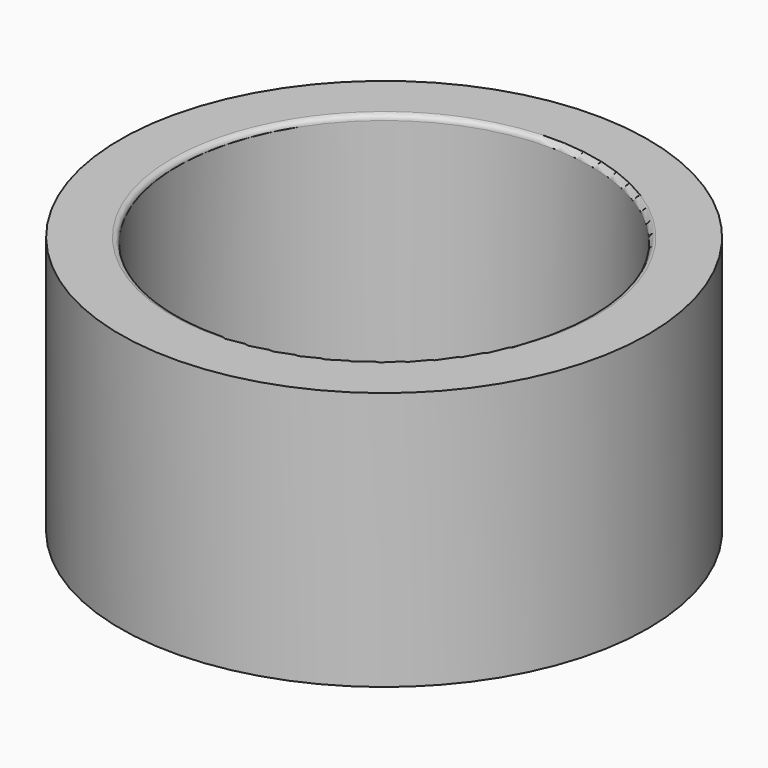
from build123d import *

# Parameters (mm, degrees)
CYLINDER001_R     = 4
CYLINDER001_DEPTH = 5
CYLINDER003_R     = 5.1
CYLINDER003_DEPTH = 5
FILLET_R          = 0.1


with BuildPart() as interior:
    # Cylinder001 → Cylinder001 (new body)
    with BuildSketch(Plane.XY):
        Circle(CYLINDER001_R)
    extrude(amount=CYLINDER001_DEPTH)


with BuildPart() as fillet_body:
    # Cylinder003 → Cylinder003 (new body)
    with BuildSketch(Plane.XY):
        Circle(CYLINDER003_R)
    extrude(amount=CYLINDER003_DEPTH)

    # Cut001: cut Interior
    add(interior.part, mode=Mode.SUBTRACT)

    # Fillet
    fillet_edges = [fillet_body.edges().sort_by_distance(p)[0] for p in [
        (-4, 0, 0),
        (-4, 0, 5),
    ]]
    fillet(fillet_edges, radius=FILLET_R)


solid = fillet_body.part
